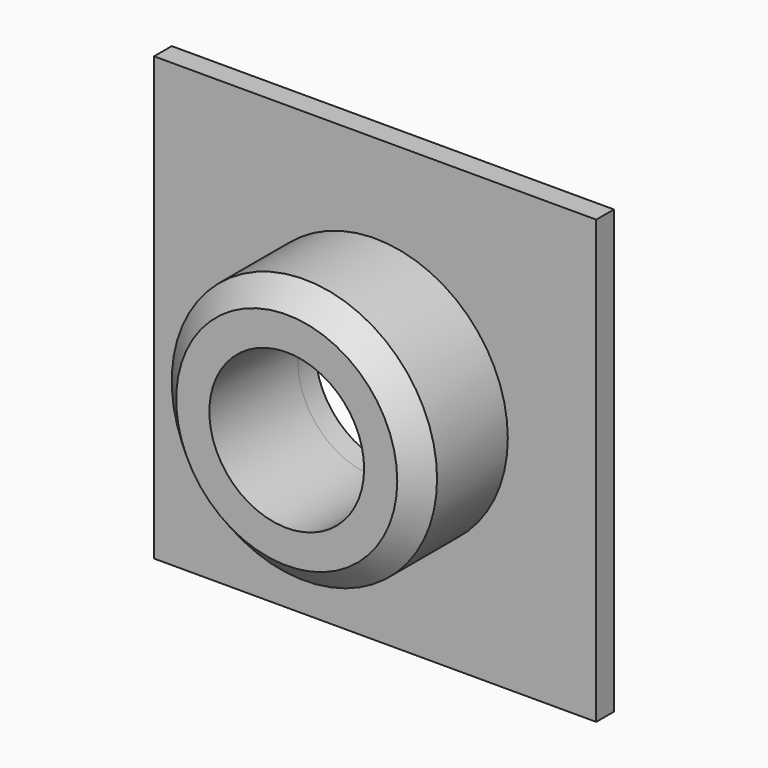
from build123d import *

# Parameters (mm, degrees)
F0_W     = 40
F0_H     = 40
F0_R     = 12
F0_R_2   = 1.25
F0_R_3   = 7
F1_DEPTH = 2
F2_DEPTH = 10
F3_SIZE  = 2
F4_DEPTH = 5


with BuildPart() as f1:
    # F0 (on Front) → F1 (new body)
    with BuildSketch(Plane.XZ):
        Rectangle(F0_W, F0_H)
        Circle(F0_R, mode=Mode.SUBTRACT)
        Circle(F0_R)
        with Locations((-9.5, 0)):
            Circle(F0_R_2, mode=Mode.SUBTRACT)
        Circle(F0_R_3, mode=Mode.SUBTRACT)
        with Locations((9.5, 0)):
            Circle(F0_R_2, mode=Mode.SUBTRACT)
    extrude(amount=-F1_DEPTH)


with BuildPart() as f2:
    # F0 (on Front) → F2 (new body)
    with BuildSketch(Plane.XZ):
        Circle(F0_R)
        with Locations((-9.5, 0)):
            Circle(F0_R_2, mode=Mode.SUBTRACT)
        Circle(F0_R_3, mode=Mode.SUBTRACT)
        with Locations((9.5, 0)):
            Circle(F0_R_2, mode=Mode.SUBTRACT)
        with Locations((-9.5, 0)):
            Circle(F0_R_2)
        with Locations((9.5, 0)):
            Circle(F0_R_2)
    extrude(amount=F2_DEPTH)

    # F3
    f3_edges = [f2.edges().sort_by_distance(p)[0] for p in [
        (-12, -10, 0),
    ]]
    chamfer(f3_edges, length=F3_SIZE)

    # F0 (on Front) → F4 (cut)
    with BuildSketch(Plane.XZ):
        with Locations((-9.5, 0)):
            Circle(F0_R_2)
        with Locations((9.5, 0)):
            Circle(F0_R_2)
    extrude(amount=F4_DEPTH, mode=Mode.SUBTRACT)


solid = Compound([f1.part, f2.part])
